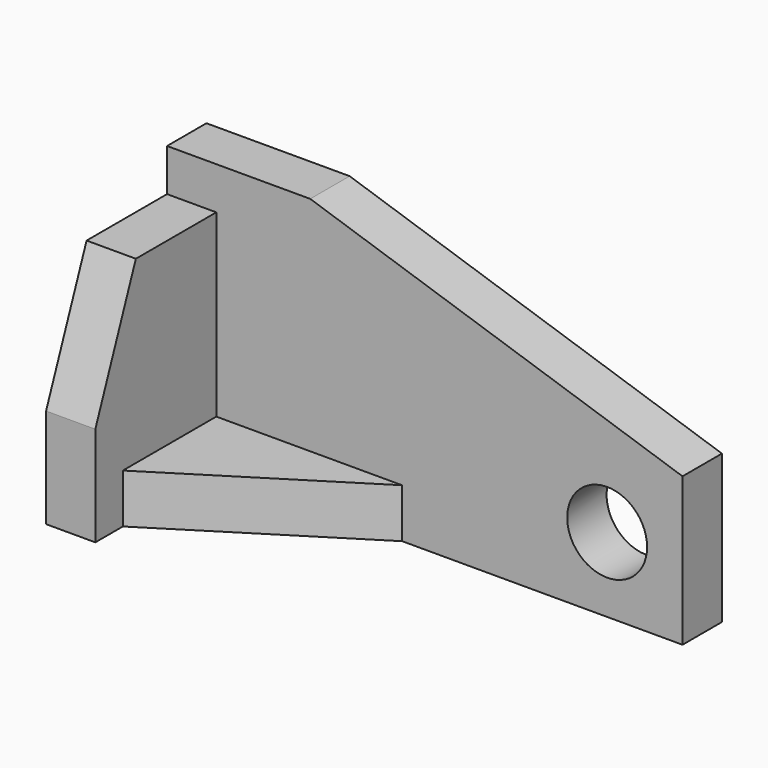
from build123d import *

# Parameters (mm, degrees)
F1_DEPTH = 10.922
F3_DEPTH = 10.922
F5_DEPTH = 10.922
F6_R     = 8.859667
F7_DEPTH = 88.646


with BuildPart() as f1:
    # F0 (on Front) → F1 (new body)
    with BuildSketch(Plane.XZ):
        Polygon((31.75, 60.198), (0, 60.198), (0, 0), (114.3, 0), (114.3, 32.885686), align=None)
    extrude(amount=F1_DEPTH)

    # F2 (on Right) → F3 (join)
    with BuildSketch(Plane.YZ):
        Polygon((-44.45, 0), (0, 0), (0, 50.8), (-33.220524, 50.8), (-44.45, 22.098), align=None)
    extrude(amount=F3_DEPTH)

    # F4 (on Top) → F5 (join)
    with BuildSketch(Plane.XY):
        Polygon((52.578, -10.637136), (0, -10.637136), (0, -43.688301), align=None)
    extrude(amount=F5_DEPTH)

    # F6 (on Front) → F7 (cut)
    with BuildSketch(Plane.XZ):
        with Locations((97.587422, 16.523723)):
            Circle(F6_R)
    extrude(amount=F7_DEPTH, mode=Mode.SUBTRACT)


solid = f1.part
